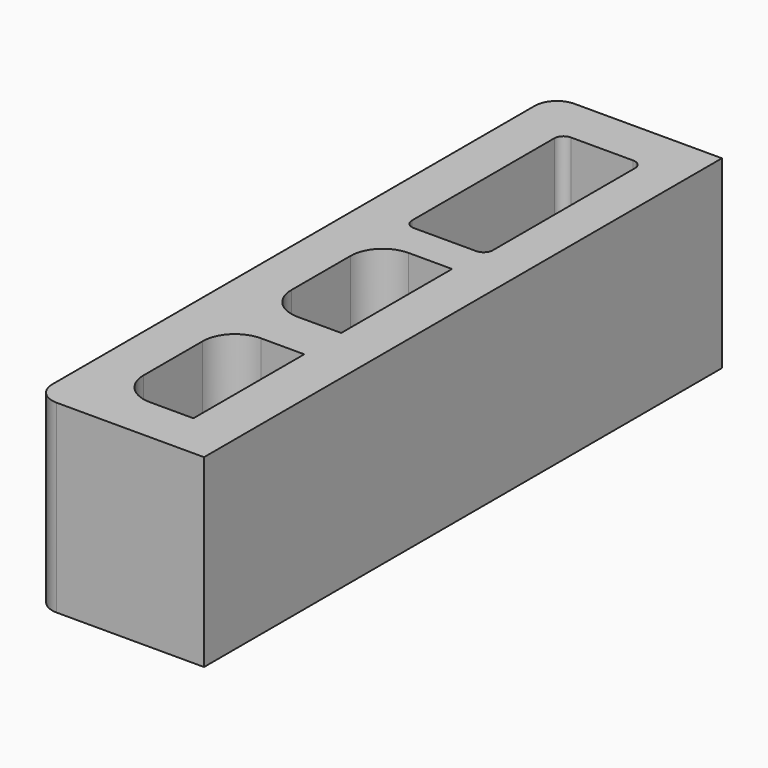
from build123d import *

# Parameters (mm, degrees)
F1_DEPTH = 50.8
F2_W     = 20.828
F2_H     = 38.1
F3_DEPTH = 50.8
F4_W     = 22.225
F4_H     = 53.975
F5_DEPTH = 50.8
F6_R     = 8.89
F7_R     = 2.54
F8_W     = 276.807827
F8_H     = 218.873116
F9_DEPTH = 50.8


with BuildPart() as f1:
    # F0 (on Top) → F1 (new body)
    with BuildSketch(Plane.XY):
        with BuildLine():
            ThreePointArc((-111.331622, 89), (-115.642145, 87.214523), (-117.427622, 82.904))
            Line((-117.427622, 82.904), (-117.427622, -82.904))
            ThreePointArc((-117.427622, -82.904), (-115.642145, -87.214523), (-111.331622, -89))
            Line((-111.331622, -89), (111.331622, -89))
            ThreePointArc((111.331622, -89), (115.642145, -87.214523), (117.427622, -82.904))
            Line((117.427622, -82.904), (117.427622, 82.904))
            ThreePointArc((117.427622, 82.904), (115.642145, 87.214523), (111.331622, 89))
            Line((111.331622, 89), (-111.331622, 89))
        make_face()
        with BuildLine():
            ThreePointArc((-60.918022, -10.802655), (-61.609639, -0.559986), (-60.913995, 9.68241))
            Line((-60.913995, 9.68241), (-55.212554, 14.261207))
            ThreePointArc((-55.212554, 14.261207), (-45.748511, 39.77658), (-28.391702, 60.737103))
            Line((-28.391702, 60.737103), (-27.407633, 67.742944))
            ThreePointArc((-27.407633, 67.742944), (-18.790824, 73.526894), (-9.485241, 78.121416))
            Line((-9.485241, 78.121416), (-2.738388, 75.428307))
            ThreePointArc((-2.738388, 75.428307), (24.098624, 80.048241), (50.935831, 75.42944))
            Line((50.935831, 75.42944), (57.610091, 78.186609))
            ThreePointArc((57.610091, 78.186609), (66.892407, 73.605247), (75.516596, 67.880422))
            Line((75.516596, 67.880422), (76.520517, 60.753405))
            ThreePointArc((76.520517, 60.753405), (79.783196, 57.954312), (82.843276, 54.935057))
            ThreePointArc((82.843276, 54.935057), (104.449894, 47.071779), (100.407804, 24.436881))
            ThreePointArc((100.407804, 24.436881), (101.514269, 20.155202), (102.319921, 15.806873))
            Line((102.319921, 15.806873), (108.049072, 10.873495))
            ThreePointArc((108.049072, 10.873495), (108.709842, 0.589153), (108.105719, -9.698672))
            Line((108.105719, -9.698672), (102.348457, -13.775574))
            ThreePointArc((102.348457, -13.775574), (92.855411, -39.306001), (75.46826, -60.272823))
            Line((75.46826, -60.272823), (74.544008, -67.341163))
            ThreePointArc((74.544008, -67.341163), (66.082602, -73.324939), (56.891661, -78.113213))
            Line((56.891661, -78.113213), (50.250983, -75.428069))
            ThreePointArc((50.250983, -75.428069), (23.341097, -80.124901), (-3.581639, -75.502299))
            Line((-3.581639, -75.502299), (-10.28992, -78.054152))
            ThreePointArc((-10.28992, -78.054152), (-19.562426, -73.562391), (-28.115124, -67.817248))
            Line((-28.115124, -67.817248), (-29.074377, -60.66791))
            ThreePointArc((-29.074377, -60.66791), (-32.330068, -57.869325), (-35.398386, -54.86649))
            ThreePointArc((-35.398386, -54.86649), (-59.811696, -48.379935), (-53.325141, -23.966625))
            ThreePointArc((-53.325141, -23.966625), (-54.434448, -19.687429), (-55.222977, -15.337682))
            Line((-55.222977, -15.337682), (-60.918022, -10.802655))
        make_face(mode=Mode.SUBTRACT)
    extrude(amount=F1_DEPTH)

    # F2 (on face) → F3 (cut)
    with BuildSketch(Plane.XY.offset(50.8)):
        with Locations((-94.313622, -57.25)):
            Rectangle(F2_W, F2_H)
        with Locations((-94.313622, -6.45)):
            Rectangle(F2_W, F2_H)
    extrude(amount=-F3_DEPTH, mode=Mode.SUBTRACT)

    # F4 (on face) → F5 (cut)
    with BuildSketch(Plane.XY.offset(50.8)):
        with Locations((-93.615122, 49.3125)):
            Rectangle(F4_W, F4_H)
    extrude(amount=-F5_DEPTH, mode=Mode.SUBTRACT)

    # F6
    f6_edges = [f1.edges().sort_by_distance(p)[0] for p in [
        (-104.727622, 12.6, 25.4),
        (-104.727622, -38.2, 25.4),
        (-104.727622, -25.5, 25.4),
        (-104.727622, -76.3, 25.4),
    ]]
    fillet(f6_edges, radius=F6_R)

    # F7
    f7_edges = [f1.edges().sort_by_distance(p)[0] for p in [
        (-82.502622, 76.3, 25.4),
        (-104.727622, 76.3, 25.4),
        (-82.502622, 22.325, 25.4),
        (-104.727622, 22.325, 25.4),
    ]]
    fillet(f7_edges, radius=F7_R)

    # F8 (on face) → F9 (cut)
    with BuildSketch(Plane.XY.offset(50.8)):
        with Locations((67.585292, -20.436558)):
            Rectangle(F8_W, F8_H)
    extrude(amount=-F9_DEPTH, mode=Mode.SUBTRACT)


solid = f1.part
